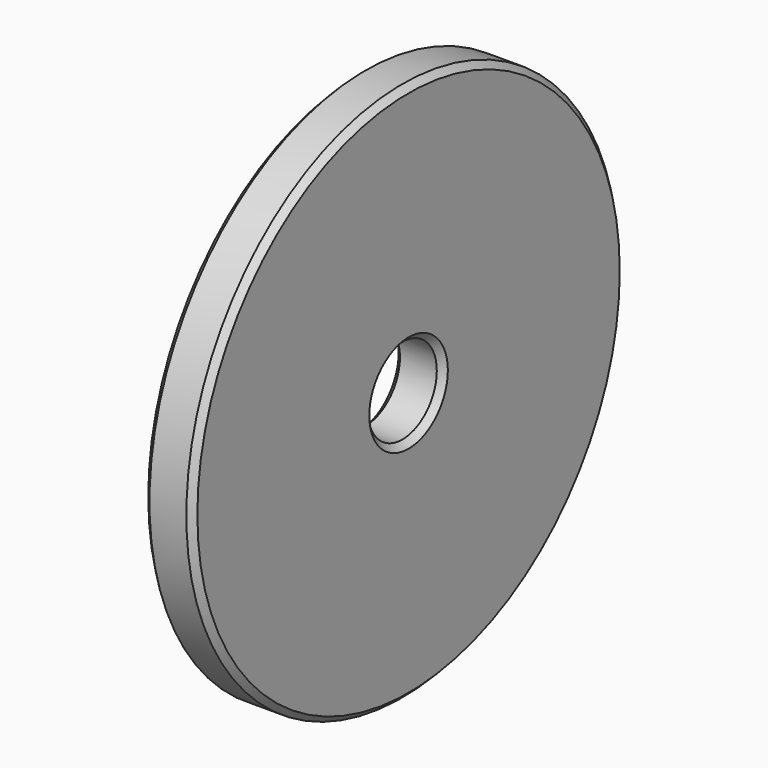
from build123d import *

# Parameters (mm, degrees)
F0_R     = 69.85
F0_R_2   = 11.1125
F1_DEPTH = 12.7
F2_SIZE  = 1.5875
F3_SIZE  = 1.5875


with BuildPart() as f1:
    # F0 (on Right) → F1 (new body)
    with BuildSketch(Plane.YZ):
        Circle(F0_R)
        Circle(F0_R_2, mode=Mode.SUBTRACT)
    extrude(amount=F1_DEPTH)

    # F2
    f2_edges = [f1.edges().sort_by_distance(p)[0] for p in [
        (0, -11.1125, 0),
        (12.7, -11.1125, 0),
    ]]
    chamfer(f2_edges, length=F2_SIZE)

    # F3
    f3_edges = [f1.edges().sort_by_distance(p)[0] for p in [
        (0, -69.85, 0),
        (12.7, -69.85, 0),
    ]]
    chamfer(f3_edges, length=F3_SIZE)


solid = f1.part
